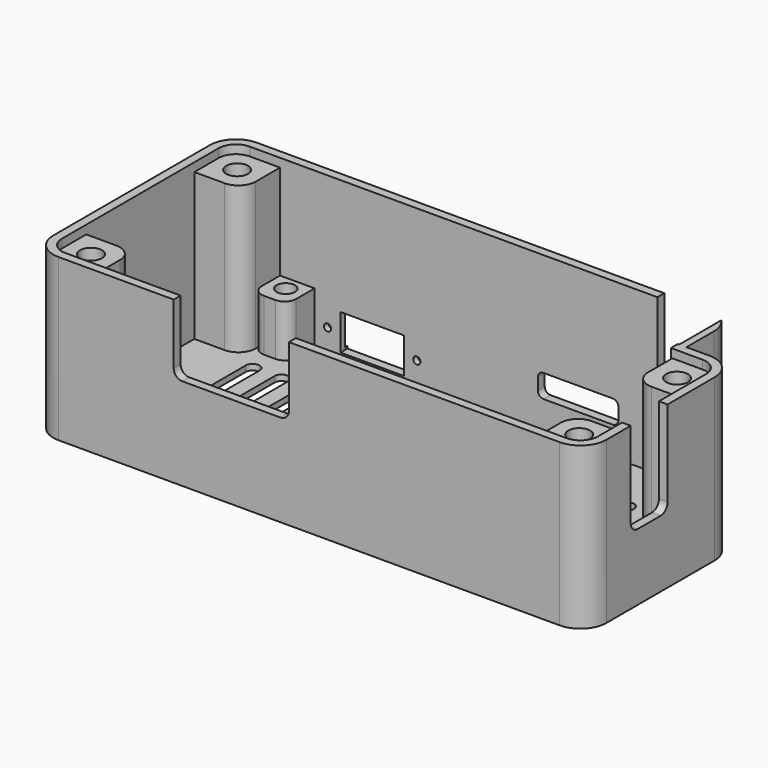
from build123d import *

# Parameters (mm, degrees)
PAD_DEPTH           = 28
POCKET_DEPTH        = 27
SKETCH002_R         = 1.6
PAD001_DEPTH        = 9
SKETCH004_R         = 1.6
PAD002_DEPTH        = 25.5
SKETCH005_W         = 20
SKETCH005_H         = 5.5
POCKET001_DEPTH     = 0.5
SKETCH006_R         = 0.625
SKETCH006_W         = 11
SKETCH006_H         = 6.2
POCKET002_DEPTH     = 5
POCKET004_DEPTH     = 5
POCKET005_DEPTH     = 5
SKETCH011_R         = 1.9
POCKET007_DEPTH     = 4
POCKET009_DEPTH     = 5
LINEARPATTERN_COUNT = 15
LINEARPATTERN_PITCH = 5
PAD003_DEPTH        = 7.5
SKETCH015_R         = 4
POCKET010_DEPTH     = 6
SKETCH016_R         = 4.2
POCKET011_DEPTH     = 4
POCKET013_DEPTH     = 5
POCKET014_DEPTH     = 10.5


with BuildPart() as part:
    # Sketch → Pad (new body)
    with BuildSketch(Plane.XY):
        with BuildLine():
            Line((48, 6.5), (48, -17))
            ThreePointArc((43.5, -21.5), (46.681981, -20.181981), (48, -17))
            Line((43.5, -21.5), (-43.5, -21.5))
            ThreePointArc((-48, -17), (-46.681981, -20.181981), (-43.5, -21.5))
            Line((-48, -17), (-48, 17))
            ThreePointArc((-43.5, 21.5), (-46.681981, 20.181981), (-48, 17))
            Line((35, 21.5), (-43.5, 21.5))
            ThreePointArc((39.5, 17), (38.181981, 20.181981), (35, 21.5))
            Line((39.5, 11), (39.5, 17))
            Line((43.5, 11), (39.5, 11))
            ThreePointArc((48, 6.5), (46.681981, 9.681981), (43.5, 11))
        make_face()
    extrude(amount=PAD_DEPTH)

    # Sketch001 (on Face13 of Pad) → Pocket (cut)
    with BuildSketch(Plane.XY.offset(28)):
        with BuildLine():
            Line((-43.5, 20), (35, 20))
            ThreePointArc((38, 17), (37.12132, 19.12132), (35, 20))
            Line((38, 17), (38, 9.5))
            Line((38, 9.5), (43.5, 9.5))
            ThreePointArc((46.5, 6.5), (45.62132, 8.62132), (43.5, 9.5))
            Line((46.5, 6.5), (46.5, -17))
            ThreePointArc((43.5, -20), (45.62132, -19.12132), (46.5, -17))
            Line((43.5, -20), (-43.5, -20))
            ThreePointArc((-46.5, -17), (-45.62132, -19.12132), (-43.5, -20))
            Line((-46.5, -17), (-46.5, 17))
            ThreePointArc((-43.5, 20), (-45.62132, 19.12132), (-46.5, 17))
        make_face()
    extrude(amount=-POCKET_DEPTH, mode=Mode.SUBTRACT)

    # Sketch002 (on Face25 of Pocket) → Pad001 (join)
    with BuildSketch(Plane.XY.offset(1)):
        with BuildLine():
            Line((-38.25, 20), (-32.25, 20))
            Line((-32.25, 20), (-32.25, 16))
            ThreePointArc((-34.25, 14), (-32.835786, 14.585786), (-32.25, 16))
            Line((-34.25, 14), (-36.25, 14))
            ThreePointArc((-38.25, 16), (-37.664214, 14.585786), (-36.25, 14))
            Line((-38.25, 16), (-38.25, 20))
        make_face()
        with Locations((-35.25, 17.5)):
            Circle(SKETCH002_R, mode=Mode.SUBTRACT)
        with BuildLine():
            Line((-36.25, -14), (-34.25, -14))
            ThreePointArc((-32.25, -16), (-32.835786, -14.585786), (-34.25, -14))
            Line((-32.25, -16), (-32.25, -20))
            Line((-32.25, -20), (-38.25, -20))
            Line((-38.25, -20), (-38.25, -16))
            ThreePointArc((-36.25, -14), (-37.664214, -14.585786), (-38.25, -16))
        make_face()
        with Locations((-35.25, -17.5)):
            Circle(SKETCH002_R, mode=Mode.SUBTRACT)
        with BuildLine():
            Line((32.25, 20), (35, 20))
            ThreePointArc((38, 17), (37.12132, 19.12132), (35, 20))
            Line((38, 17), (38, 14))
            Line((38, 14), (34.25, 14))
            ThreePointArc((32.25, 16), (32.835786, 14.585786), (34.25, 14))
            Line((32.25, 16), (32.25, 20))
        make_face()
        with Locations((35.25, 17.5)):
            Circle(SKETCH002_R, mode=Mode.SUBTRACT)
        with BuildLine():
            Line((34.25, -14), (36.25, -14))
            ThreePointArc((38.25, -16), (37.664214, -14.585786), (36.25, -14))
            Line((38.25, -16), (38.25, -20))
            Line((38.25, -20), (32.25, -20))
            Line((32.25, -20), (32.25, -16))
            ThreePointArc((34.25, -14), (32.835786, -14.585786), (32.25, -16))
        make_face()
        with Locations((35.25, -17.5)):
            Circle(SKETCH002_R, mode=Mode.SUBTRACT)
    extrude(amount=PAD001_DEPTH)

    # Sketch004 (on Face25 of Pad001) → Pad002 (join)
    with BuildSketch(Plane.XY.offset(1)):
        with BuildLine():
            Line((-43.5, 20), (-38.25, 20))
            Line((-38.25, 20), (-38.25, 14.724588))
            ThreePointArc((-41.25, 11.724588), (-39.12868, 12.603268), (-38.25, 14.724588))
            Line((-41.25, 11.724588), (-46.5, 11.724588))
            Line((-46.5, 11.724588), (-46.5, 17))
            ThreePointArc((-43.5, 20), (-45.62132, 19.12132), (-46.5, 17))
        make_face()
        with Locations((-42.375, 15.862294)):
            Circle(SKETCH004_R, mode=Mode.SUBTRACT)
        with BuildLine():
            Line((-41.25, -11.724588), (-46.5, -11.724588))
            Line((-46.5, -11.724588), (-46.5, -17))
            ThreePointArc((-46.5, -17), (-45.62132, -19.12132), (-43.5, -20))
            Line((-43.5, -20), (-38.25, -20))
            Line((-38.25, -20), (-38.25, -14.724588))
            ThreePointArc((-38.25, -14.724588), (-39.12868, -12.603268), (-41.25, -11.724588))
        make_face()
        with Locations((-42.375, -15.862294)):
            Circle(SKETCH004_R, mode=Mode.SUBTRACT)
        with BuildLine():
            Line((41.25, -11.724588), (46.5, -11.724588))
            Line((46.5, -11.724588), (46.5, -17))
            ThreePointArc((43.5, -20), (45.62132, -19.12132), (46.5, -17))
            Line((43.5, -20), (38.25, -20))
            Line((38.25, -20), (38.25, -14.724588))
            ThreePointArc((41.25, -11.724588), (39.12868, -12.603268), (38.25, -14.724588))
        make_face()
        with Locations((42.375, -15.862294)):
            Circle(SKETCH004_R, mode=Mode.SUBTRACT)
        with BuildLine():
            Line((46.5, 6.5), (46.5, 1.224588))
            Line((46.5, 1.224588), (41.25, 1.224588))
            ThreePointArc((38.25, 4.224588), (39.12868, 2.103268), (41.25, 1.224588))
            Line((38.25, 4.224588), (38.25, 9.5))
            Line((43.5, 9.5), (38.25, 9.5))
            ThreePointArc((46.5, 6.5), (45.62132, 8.62132), (43.5, 9.5))
        make_face()
        with Locations((42.375, 5.362294)):
            Circle(SKETCH004_R, mode=Mode.SUBTRACT)
    extrude(amount=PAD002_DEPTH)

    # Sketch005 (on Face12 of Pad002) → Pocket001 (cut)
    with BuildSketch(Plane(origin=(0, 21.5, 0), x_dir=(-1, 0, 0), z_dir=(0, 1, 0))):
        with Locations((22.25, 4.75)):
            Rectangle(SKETCH005_W, SKETCH005_H)
    extrude(amount=-POCKET001_DEPTH, mode=Mode.SUBTRACT)

    # Sketch006 (on Face12 of Pocket001) → Pocket002 (cut)
    with BuildSketch(Plane(origin=(0, 21.5, 0), x_dir=(-1, 0, 0), z_dir=(0, 1, 0))):
        with Locations((30, 4.75)):
            Circle(SKETCH006_R)
        with Locations((14.5, 4.75)):
            Circle(SKETCH006_R)
        with Locations((22.25, 4.75)):
            Rectangle(SKETCH006_W, SKETCH006_H)
    extrude(amount=-POCKET002_DEPTH, mode=Mode.SUBTRACT)

    # Sketch008 (on Face8 of Pocket002) → Pocket004 (cut)
    with BuildSketch(Plane.XZ.offset(21.5)):
        with BuildLine():
            Line((-23.5, 28), (-3.5, 28))
            Line((-3.5, 28), (-3.5, 17.5))
            ThreePointArc((-5, 16), (-3.93934, 16.43934), (-3.5, 17.5))
            Line((-5, 16), (-22, 16))
            ThreePointArc((-23.5, 17.5), (-23.06066, 16.43934), (-22, 16))
            Line((-23.5, 17.5), (-23.5, 28))
        make_face()
    extrude(amount=-POCKET004_DEPTH, mode=Mode.SUBTRACT)

    # Sketch009 (on Face2 of Pocket004) → Pocket005 (cut)
    with BuildSketch(Plane.YZ.offset(48)):
        with BuildLine():
            Line((-11.724588, 28), (-3.724588, 28))
            Line((-3.724588, 28), (-3.724588, 13.1))
            ThreePointArc((-5.224588, 11.6), (-4.163928, 12.03934), (-3.724588, 13.1))
            Line((-5.224588, 11.6), (-10.224588, 11.6))
            ThreePointArc((-11.724588, 13.1), (-11.285248, 12.03934), (-10.224588, 11.6))
            Line((-11.724588, 13.1), (-11.724588, 28))
        make_face()
    extrude(amount=-POCKET005_DEPTH, mode=Mode.SUBTRACT)

    # Sketch011 (on Face64 of Pocket005) → Pocket007 (cut)
    with BuildSketch(Plane.XY.offset(26.5)):
        with Locations((42.375, 5.362294)):
            Circle(SKETCH011_R)
        with Locations((42.375, -15.862294)):
            Circle(SKETCH011_R)
        with Locations((-42.375, 15.862294)):
            Circle(SKETCH011_R)
        with Locations((-42.375, -15.862294)):
            Circle(SKETCH011_R)
    extrude(amount=-POCKET007_DEPTH, mode=Mode.SUBTRACT)

    # Sketch013 (on Face49 of Pocket007) → Pocket009 (cut)
    with BuildSketch(Plane.XY.offset(1)):
        with BuildLine():
            ThreePointArc((-33.8, 10), (-35, 11.2), (-36.2, 10))
            Line((-36.2, 10), (-36.2, -10))
            ThreePointArc((-36.2, -10), (-35, -11.2), (-33.8, -10))
            Line((-33.8, -10), (-33.8, 10))
        make_face()
    pocket009 = extrude(amount=-POCKET009_DEPTH, mode=Mode.SUBTRACT)

    # LinearPattern: Pocket009 ×15
    with Locations(*[(i * LINEARPATTERN_PITCH, 0, 0) for i in range(1, LINEARPATTERN_COUNT)]):
        add(pocket009, mode=Mode.SUBTRACT)

    # Sketch014 (on Face4 of LinearPattern) → Pad003 (join)
    with BuildSketch(Plane(origin=(0, 0, 0), x_dir=(1, 0, 0), z_dir=(0, 0, -1))):
        with BuildLine():
            ThreePointArc((-6.5, 14), (0, 7.5), (6.5, 14))
            Line((6.5, 14), (6.5, 21.5))
            Line((-6.5, 21.5), (6.5, 21.5))
            Line((-6.5, 21.5), (-6.5, 14))
        make_face()
    extrude(amount=-PAD003_DEPTH)

    # Sketch015 (on Face15 of Pad003) → Pocket010 (cut)
    with BuildSketch(Plane(origin=(0, 0, 0), x_dir=(1, 0, 0), z_dir=(0, 0, -1))):
        with Locations((0, 14)):
            Circle(SKETCH015_R)
    extrude(amount=-POCKET010_DEPTH, mode=Mode.SUBTRACT)

    # Sketch016 (on Face15 of Pocket010) → Pocket011 (cut)
    with BuildSketch(Plane(origin=(0, 0, 0), x_dir=(1, 0, 0), z_dir=(0, 0, -1))):
        with Locations((0, 14)):
            Circle(SKETCH016_R)
    extrude(amount=-POCKET011_DEPTH, mode=Mode.SUBTRACT)

    # Sketch018 (on Face30 of Pocket011) → Pocket013 (cut)
    with BuildSketch(Plane(origin=(0, 21.5, 0), x_dir=(-1, 0, 0), z_dir=(0, 1, 0))):
        with BuildLine():
            Line((-19.5, 10), (-7.5, 10))
            ThreePointArc((-6.5, 9), (-6.792893, 9.707107), (-7.5, 10))
            Line((-6.5, 9), (-6.5, 7))
            ThreePointArc((-7.5, 6), (-6.792893, 6.292893), (-6.5, 7))
            Line((-7.5, 6), (-19.5, 6))
            ThreePointArc((-20.5, 7), (-20.207107, 6.292893), (-19.5, 6))
            Line((-20.5, 7), (-20.5, 9))
            ThreePointArc((-19.5, 10), (-20.207107, 9.707107), (-20.5, 9))
        make_face()
    extrude(amount=-POCKET013_DEPTH, mode=Mode.SUBTRACT)

    # Sketch019 (on Face30 of Pocket013) → Pocket014 (cut)
    with BuildSketch(Plane(origin=(0, 21.5, 0), x_dir=(-1, 0, 0), z_dir=(0, 1, 0))):
        with BuildLine():
            Line((-27.25, 28), (-38.25, 28))
            Line((-38.25, 28), (-38.25, 16))
            ThreePointArc((-38.25, 16), (-37.664214, 14.585786), (-36.25, 14))
            Line((-36.25, 14), (-29.25, 14))
            ThreePointArc((-29.25, 14), (-27.835786, 14.585786), (-27.25, 16))
            Line((-27.25, 16), (-27.25, 28))
        make_face()
    extrude(amount=-POCKET014_DEPTH, mode=Mode.SUBTRACT)


solid = part.part
